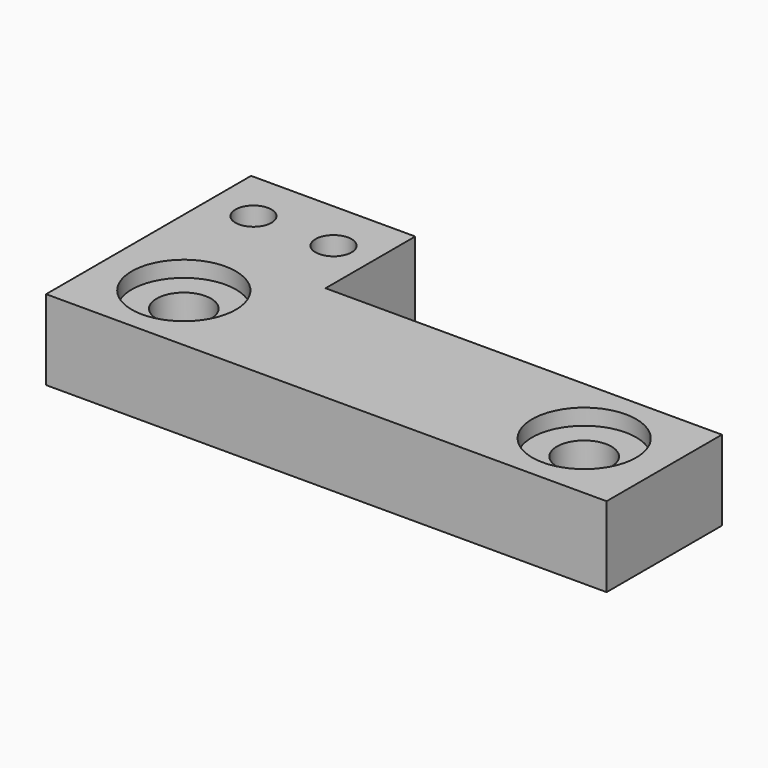
from build123d import *

# Parameters (mm, degrees)
SKETCH069_R     = 2.25
SKETCH069_R_2   = 3.4
PAD046_DEPTH    = 10
SKETCH070_R     = 6.5
POCKET019_DEPTH = 2


with BuildPart() as body_7_body:
    # Sketch069 → Pad046 (new body)
    with BuildSketch(Plane.XY):
        Polygon((-35, 23), (-35, -9), (35, -9), (35, 9), (-14.5, 9), (-14.5, 23), align=None)
        with Locations((-29.5, 16.5)):
            Circle(SKETCH069_R, mode=Mode.SUBTRACT)
        with Locations((-19.5, 16.5)):
            Circle(SKETCH069_R, mode=Mode.SUBTRACT)
        with Locations((-25, 0)):
            Circle(SKETCH069_R_2, mode=Mode.SUBTRACT)
        with Locations((25, 0)):
            Circle(SKETCH069_R_2, mode=Mode.SUBTRACT)
    extrude(amount=PAD046_DEPTH)

    # Sketch070 → Pocket019 (cut)
    with BuildSketch(Plane.XY):
        with Locations((-25, 0)):
            Circle(SKETCH070_R)
        with Locations((25, 0)):
            Circle(SKETCH070_R)
    extrude(amount=POCKET019_DEPTH, mode=Mode.SUBTRACT)


with BuildPart() as part_mirroring:
    # Part__Mirroring: instance of Body_7 body
    add(body_7_body.part.mirror(Plane(origin=(0, 0, 0), x_dir=(0, 1, 0), z_dir=(0, 0, 1))))


solid = part_mirroring.part
